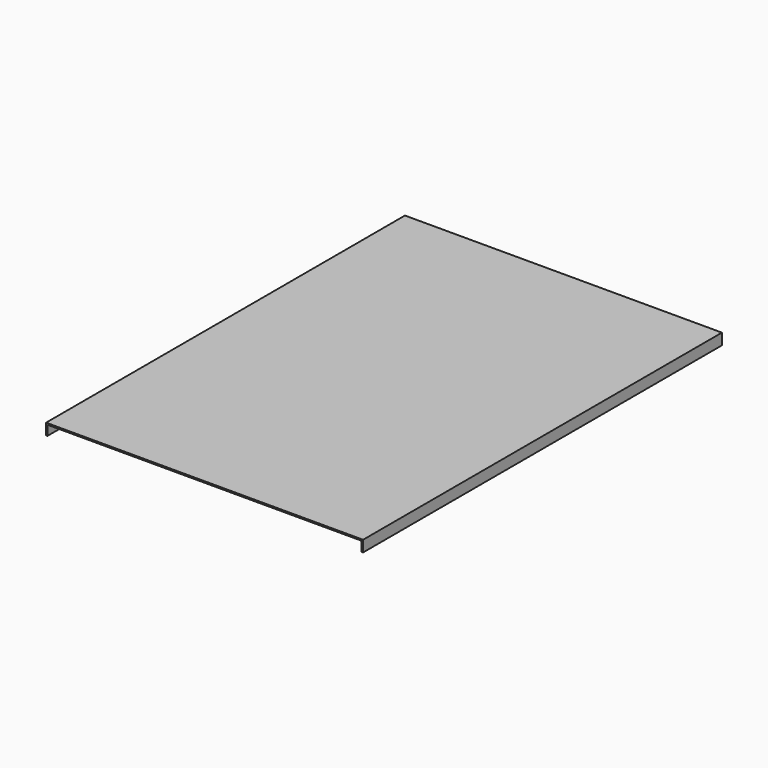
from build123d import *

# Parameters (mm, degrees)
F0_W     = 4.7752
F0_H     = 4.7752
F0_H_2   = 33.3248
F0_W_2   = 1067.4096
F1_DEPTH = 1524


with BuildPart() as f1:
    # F0 (on Front) → F1 (new body)
    with BuildSketch(Plane.XZ):
        with Locations((-101.654185, -39.260997)):
            Rectangle(F0_W, F0_H)
        with Locations((-101.654185, -58.310997)):
            Rectangle(F0_W, F0_H_2)
        with Locations((434.438215, -39.260997)):
            Rectangle(F0_W_2, F0_H)
        with Locations((970.530615, -39.260997)):
            Rectangle(F0_W, F0_H)
        with Locations((970.530615, -58.310997)):
            Rectangle(F0_W, F0_H_2)
    extrude(amount=F1_DEPTH)


solid = f1.part
